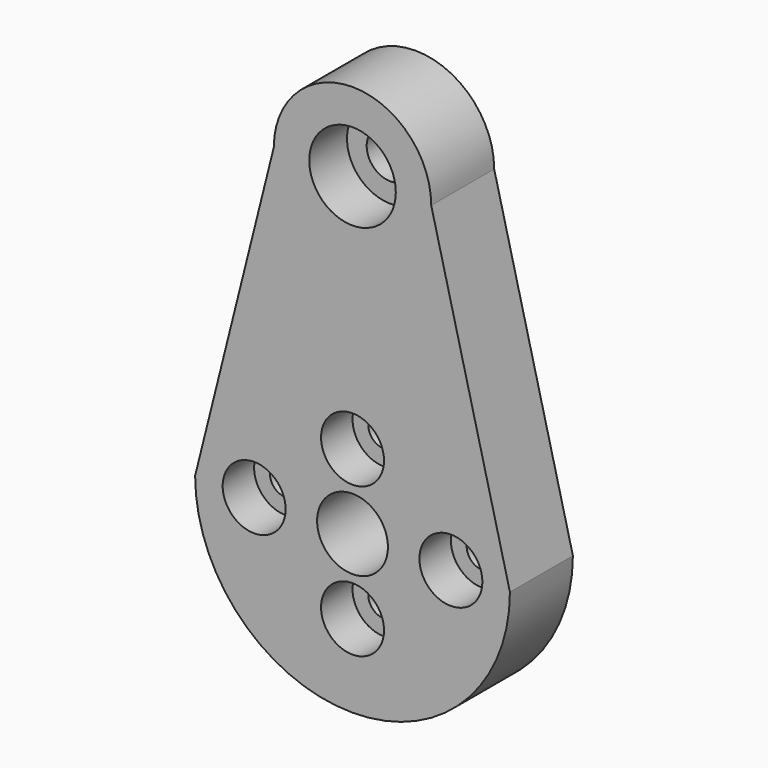
from build123d import *

# Parameters (mm, degrees)
F0_R     = 2
F0_R_2   = 4.5
F0_R_3   = 5.5
F1_DEPTH = 10
F0_R_4   = 3
F2_DEPTH = 4
F3_R     = 4
F3_R_2   = 2
F4_DEPTH = 5


with BuildPart() as f1:
    # F0 (on Front) → F1 (new body)
    with BuildSketch(Plane.XZ):
        with BuildLine():
            Line((20, -40), (10, 0))
            ThreePointArc((10, 0), (0, 10), (-10, 0))
            Line((-10, 0), (-20, -40))
            ThreePointArc((-20, -40), (0, -60), (20, -40))
        make_face()
        with Locations((-12.5, -40)):
            Circle(F0_R, mode=Mode.SUBTRACT)
        with Locations((0, -49.5)):
            Circle(F0_R, mode=Mode.SUBTRACT)
        with Locations((0, -40)):
            Circle(F0_R_2, mode=Mode.SUBTRACT)
        with Locations((0, -30.5)):
            Circle(F0_R, mode=Mode.SUBTRACT)
        with Locations((12.5, -40)):
            Circle(F0_R, mode=Mode.SUBTRACT)
        Circle(F0_R_3, mode=Mode.SUBTRACT)
    extrude(amount=F1_DEPTH)

    # F0 (on Front) → F2 (join)
    with BuildSketch(Plane.XZ):
        Circle(F0_R_3)
        Circle(F0_R_4, mode=Mode.SUBTRACT)
    extrude(amount=F2_DEPTH)

    # F3 (on face) → F4 (cut)
    with BuildSketch(Plane.XZ.offset(10)):
        with Locations((0, -30.5)):
            Circle(F3_R)
        with Locations((0, -30.5)):
            Circle(F3_R_2, mode=Mode.SUBTRACT)
        with Locations((-12.5, -40)):
            Circle(F3_R)
        with Locations((-12.5, -40)):
            Circle(F3_R_2, mode=Mode.SUBTRACT)
        with Locations((0, -49.5)):
            Circle(F3_R)
        with Locations((0, -49.5)):
            Circle(F3_R_2, mode=Mode.SUBTRACT)
        with Locations((12.5, -40)):
            Circle(F3_R)
        with Locations((12.5, -40)):
            Circle(F3_R_2, mode=Mode.SUBTRACT)
    extrude(amount=-F4_DEPTH, mode=Mode.SUBTRACT)


solid = f1.part
